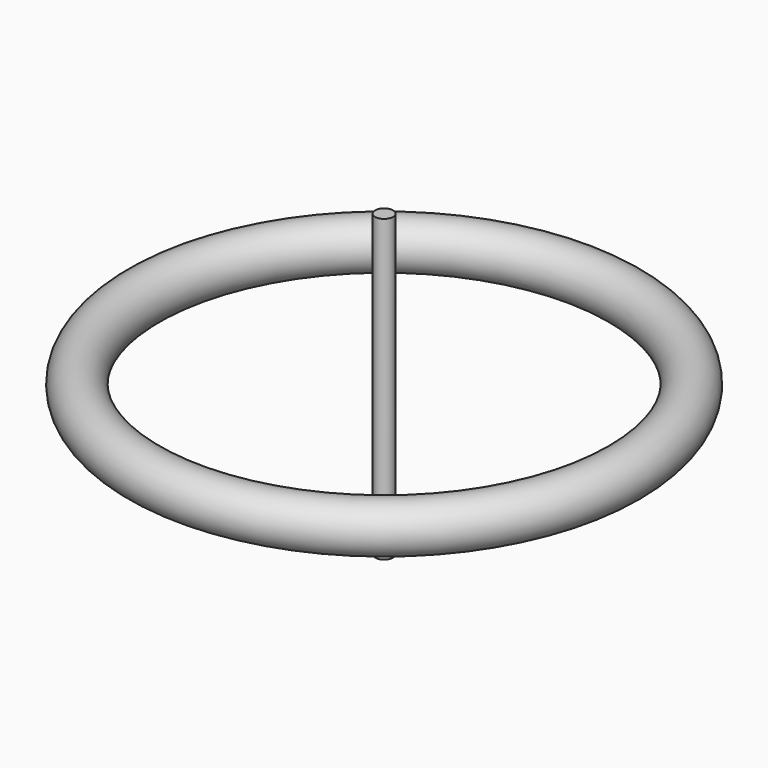
from build123d import *

# Parameters (mm, degrees)
F0_R     = 2
F2_R     = 0.747502
F3_DEPTH = 12.5


with BuildPart() as f1:
    # F0 (on Front) → F1 (revolve)
    with BuildSketch(Plane.XZ):
        with Locations((20, 0)):
            Circle(F0_R)
    revolve(axis=Axis((0, 0, -12.6), (0, 0, -1)))


with BuildPart() as f3:
    # F2 (on Top) → F3 (new body, symmetric)
    with BuildSketch(Plane.XY):
        Circle(F2_R)
    extrude(amount=F3_DEPTH, both=True)


solid = Compound([f1.part, f3.part])
